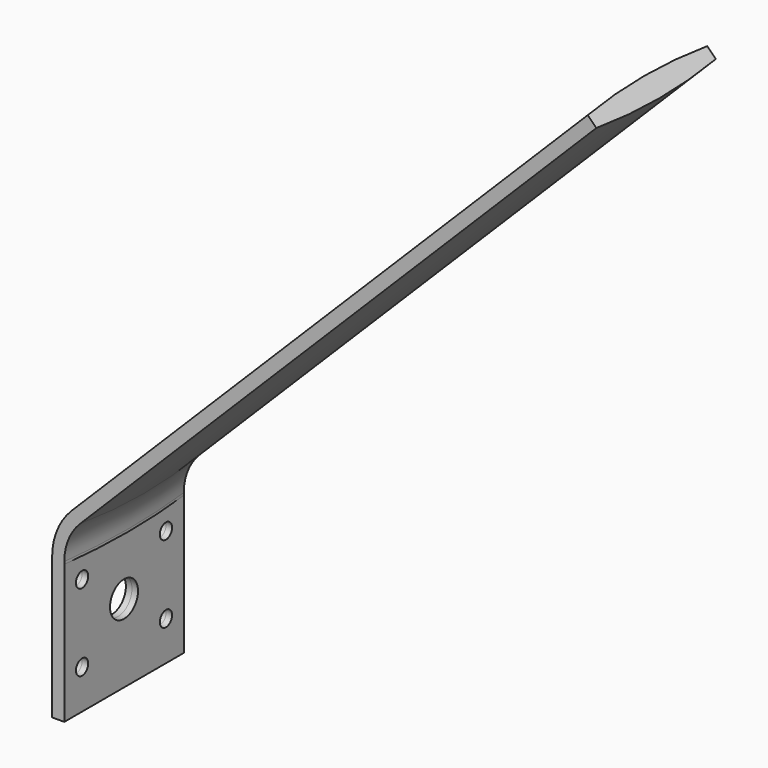
from build123d import *

# Parameters (mm, degrees)
F3_W          = 5.4267539829
F3_H          = 30.7
F3_W_2        = 3.1396893039
F4_DEPTH      = 28.5
F5_R          = 3.6
F6_DEPTH      = 111.2661396622
F6_DEPTH_BACK = 2.1760001
F7_R          = 1.575
F8_DEPTH      = 2.1760001
F8_DEPTH_BACK = 111.2661396622


with BuildPart() as f2:
    # F2: sweep along a path in F0
    with BuildLine(Plane.XZ) as f2_path:
        Line((0, 0), (0, 29))
        ThreePointArc((0, 29), (0.9515058436, 33.7835429046), (3.6611652352, 37.8388347648))
        Line((3.6611652352, 37.8388347648), (109.7271824132, 143.9048519428))
    # F1 (on Top) → F2 (sweep)
    with BuildSketch(Plane.XY):
        with BuildLine():
            ThreePointArc((-1.25, 15.35), (-2.175, 0), (-1.25, -15.35))
            Line((-1.25, -15.35), (1.25, -15.35))
            ThreePointArc((1.25, -15.35), (2.175, 0), (1.25, 15.35))
            Line((1.25, 15.35), (-1.25, 15.35))
        make_face()
    sweep(path=f2_path.line)

    # F3 (on face) → F4 (cut)
    with BuildSketch(Plane(origin=(0, 0, 0), x_dir=(1, 0, 0), z_dir=(0, 0, -1))):
        with Locations((-3.9633769915, 0)):
            Rectangle(F3_W, F3_H)
        with Locations((2.819844652, 0)):
            Rectangle(F3_W_2, F3_H)
    extrude(amount=-F4_DEPTH, mode=Mode.SUBTRACT)

    # F5 (on Right) → F6 (cut, two sides)
    with BuildSketch(Plane.YZ) as f6_sk:
        with Locations((0, 16)):
            Circle(F5_R)
    extrude(amount=F6_DEPTH, mode=Mode.SUBTRACT)
    extrude(f6_sk.sketch, amount=-F6_DEPTH_BACK, mode=Mode.SUBTRACT)

    # F7 (on Right) → F8 (cut, two sides)
    with BuildSketch(Plane.YZ) as f8_sk:
        with Locations((-10.775, 23.925)):
            Circle(F7_R)
        with Locations((10.775, 23.925)):
            Circle(F7_R)
        with Locations((10.775, 8.075)):
            Circle(F7_R)
        with Locations((-10.775, 8.075)):
            Circle(F7_R)
    extrude(amount=-F8_DEPTH, mode=Mode.SUBTRACT)
    extrude(f8_sk.sketch, amount=F8_DEPTH_BACK, mode=Mode.SUBTRACT)


solid = f2.part
